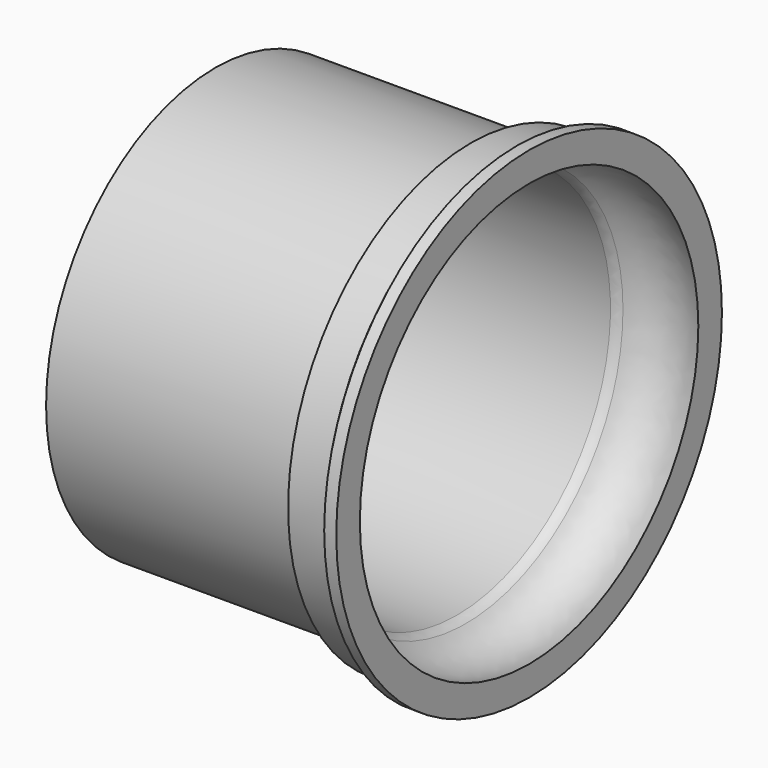
from build123d import *

# Parameters (mm, degrees)
F2_R = 5.08


with BuildPart() as f1:
    # F0 (on Front) → F1 (revolve)
    with BuildSketch(Plane.XZ):
        with BuildLine():
            Line((17.1001888812, 25.1206345856), (-93.6727151275, 25.1206345856))
            Line((-93.6727151275, 25.1206345856), (-93.0865481496, 16.3435470313))
            Line((-93.0865481496, 16.3435470313), (18.0081669241, 16.3435470313))
            add(Edge.make_bspline(
                [(47.9713305831, 25.1206345856), (38.5889224708, 28.2450132072), (25.3282189369, 28.2450132072), (18.0081669241, 16.3435470313)],
                knots=[0, 0, 0, 0, 31.2222427508, 31.2222427508, 31.2222427508, 31.2222427508], degree=3))
            Line((47.9713305831, 25.1206345856), (47.9713305831, 38.4375974536))
            Line((47.9713305831, 38.4375974536), (42.5234809518, 38.4375974536))
            Line((42.5234809518, 38.4375974536), (38.5889224708, 32.6870903373))
            Line((38.5889224708, 32.6870903373), (21.6400604695, 32.6870903373))
            Line((21.6400604695, 32.6870903373), (17.1001888812, 25.1206345856))
        make_face()
    revolve(axis=Axis((-9.7643062472, 0, -70.3739747405), (1, 0, 0)))

    # F2
    f2_edges = [f1.edges().sort_by_distance(p)[0] for p in [
        (18.008167, 0, -157.091497),
    ]]
    fillet(f2_edges, radius=F2_R)


solid = f1.part
